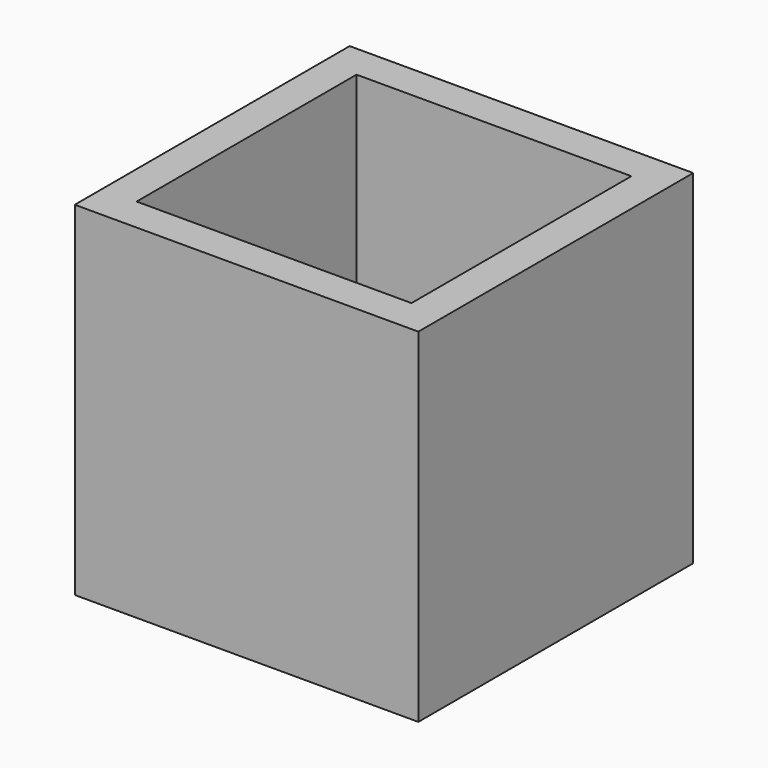
from build123d import *

# Parameters (mm, degrees)
F0_W     = 50
F0_H     = 50
F0_W_2   = 40
F0_H_2   = 40
F1_DEPTH = 50
F2_W     = 40
F2_H     = 5
F3_DEPTH = 40


with BuildPart() as f1:
    # F0 (on Top) → F1 (new body)
    with BuildSketch(Plane.XY):
        Rectangle(F0_W, F0_H)
        Rectangle(F0_W_2, F0_H_2, mode=Mode.SUBTRACT)
    extrude(amount=F1_DEPTH)

    # F2 (on face) → F3 (join)
    with BuildSketch(Plane.XZ.offset(-20)):
        with Locations((0, 2.5)):
            Rectangle(F2_W, F2_H)
    extrude(amount=F3_DEPTH)


solid = f1.part
